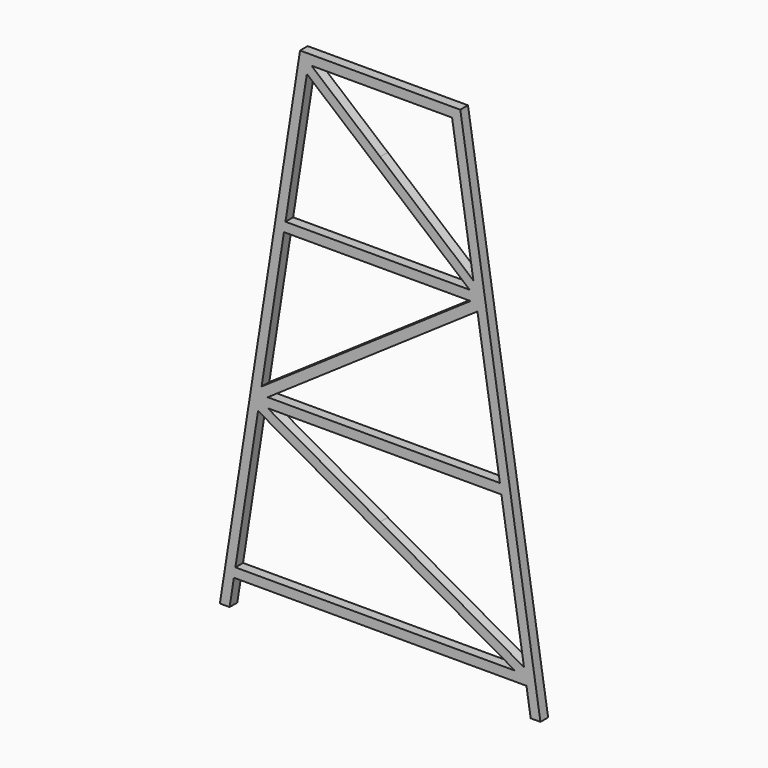
from build123d import *

# Parameters (mm, degrees)
F1_DEPTH = 0.6


with BuildPart() as f1:
    # F0 (on Front) → F1 (new body)
    with BuildSketch(Plane.XZ):
        Polygon((-9.3927199472, 0), (-9.1270949472, 1.7), (-9.0333449472, 2.3), (-9.640625, 2.3), (-10, 0), align=None)
        Polygon((-9.640625, 2.3), (-9.0333449472, 2.3), (-7.6189836648, 11.3519122078), (-7.5645949472, 11.7), (-7.5200572692, 11.9850411396), (-8.078125, 12.3), align=None)
        Polygon((-6.515625, 22.3), (-8.078125, 12.3), (-7.3980295932, 12.7660182659), (-6.0020949472, 21.7), (-5.9083449472, 22.3), align=None)
        Polygon((-5, 32), (-6.515625, 22.3), (-5.9083449472, 22.3), (-4.5716713254, 30.8547111795), (-4.4864699472, 31.4), (-4.287693299, 31.4), align=None)
        Polygon((5.8163040642, 22.8890616512), (6.515625, 22.3), (5, 32), (0, 32), (0, 31.4), (4.4864699472, 31.4), align=None)
        Polygon((0, 32), (-5, 32), (-4.287693299, 31.4), (0, 31.4), align=None)
        Polygon((7.4708449472, 12.3), (8.078125, 12.3), (6.515625, 22.3), (5.9670760935, 21.9241206637), (6.0020949472, 21.7), (6.0697327931, 21.2671177867), align=None)
        Polygon((7.5645949472, 11.7), (8.9746138009, 2.6758793363), (9.640625, 2.3), (8.078125, 12.3), (7.4708449472, 12.3), align=None)
        Polygon((9.0333449472, 2.3), (9.1270949472, 1.7), (9.3927199472, 0), (10, 0), (9.640625, 2.3), align=None)
        Polygon((0, 2.3), (0, 1.7), (9.1270949472, 1.7), (9.0333449472, 2.3), (8.4198732785, 2.3), align=None)
        Polygon((-9.1270949472, 1.7), (0, 1.7), (0, 2.3), (-9.0333449472, 2.3), align=None)
        Polygon((0, 7.7409171076), (0, 7.0519567004), (8.4198732785, 2.3), (9.0333449472, 2.3), (8.9746138009, 2.6758793363), align=None)
        Polygon((-7.6189836648, 11.3519122078), (0, 7.0519567004), (0, 7.7409171076), (-7.015, 11.7), (-7.5645949472, 11.7), align=None)
        Polygon((0, 12.3), (0, 11.7), (7.5645949472, 11.7), (7.4708449472, 12.3), align=None)
        Polygon((-7.015, 11.7), (0, 11.7), (0, 12.3), (-7.0166547269, 12.3), (-7.4708449472, 12.3), (-7.5200572692, 11.9850411396), align=None)
        Polygon((0, 17.8353319058), (0, 17.1079861084), (6.0697327931, 21.2671177867), (6.0020949472, 21.7), (5.64, 21.7), align=None)
        Polygon((-7.3980295932, 12.7660182659), (-7.4708449472, 12.3), (-7.0166547269, 12.3), (0, 17.1079861084), (0, 17.8353319058), align=None)
        Polygon((5.5842921721, 22.3), (5.9083449472, 22.3), (5.8163040642, 22.8890616512), (0, 27.7883310719), (0, 27.0038379653), align=None)
        Polygon((0, 27.7883310719), (-4.287693299, 31.4), (-4.4864699472, 31.4), (-4.5716713254, 30.8547111795), (0, 27.0038379653), align=None)
        Polygon((5.9670760935, 21.9241206637), (5.9083449472, 22.3), (5.5842921721, 22.3), (0, 22.3), (0, 21.7), (5.64, 21.7), align=None)
        Polygon((0, 22.3), (-5.9083449472, 22.3), (-6.0020949472, 21.7), (0, 21.7), align=None)
        Polygon((5.9083449472, 22.3), (6.515625, 22.3), (5.8163040642, 22.8890616512), align=None)
        Polygon((5.9670760935, 21.9241206637), (6.515625, 22.3), (5.9083449472, 22.3), align=None)
        Polygon((6.0020949472, 21.7), (5.9670760935, 21.9241206637), (5.64, 21.7), align=None)
        Polygon((8.9746138009, 2.6758793363), (9.0333449472, 2.3), (9.640625, 2.3), align=None)
        Polygon((-7.3980295932, 12.7660182659), (-8.078125, 12.3), (-7.4708449472, 12.3), align=None)
        Polygon((-7.4708449472, 12.3), (-8.078125, 12.3), (-7.5200572692, 11.9850411396), align=None)
        Polygon((-7.5645949472, 11.7), (-7.015, 11.7), (-7.5200572692, 11.9850411396), align=None)
    extrude(amount=F1_DEPTH)


solid = f1.part
